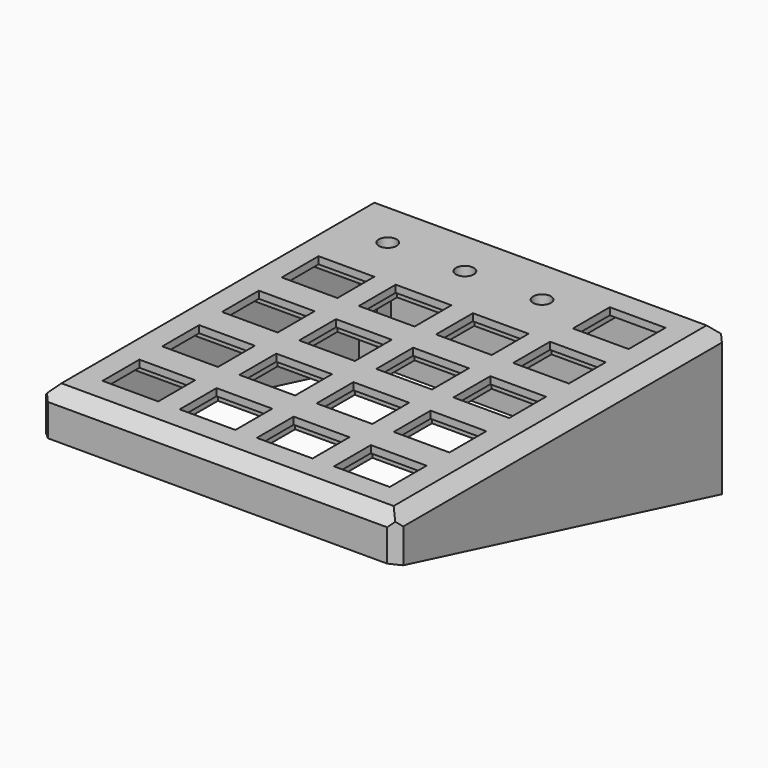
from build123d import *

# Parameters (mm, degrees)
SKETCH_W        = 100
SKETCH_H        = 116.5
SKETCH_R        = 2.5
SKETCH_W_2      = 15.6
SKETCH_H_2      = 12.9
PAD_DEPTH       = 2
SKETCH001_W     = 100
SKETCH001_H     = 116.5
SKETCH001_W_2   = 96
SKETCH001_H_2   = 112.5
PAD001_DEPTH    = 40
SKETCH002_R     = 5
SKETCH002_R_2   = 2.5
SKETCH002_W     = 19.6
SKETCH002_H     = 18.9
PAD002_DEPTH    = 3
POCKET_DEPTH    = 100.001
CHAMFER_SIZE    = 3.5
CHAMFER001_SIZE = 2.5
SKETCH004_W     = 5
SKETCH004_H     = 5
PAD003_DEPTH    = 12.2
SKETCH006_R     = 0.8
POCKET001_DEPTH = 12
POCKET002_DEPTH = 5
POCKET003_DEPTH = 5
SKETCH008_W     = 5
SKETCH008_H     = 5
PAD004_DEPTH    = 41
SKETCH010_R     = 0.8
POCKET004_DEPTH = 15
POCKET005_DEPTH = 5
POCKET006_DEPTH = 5
CHAMFER002_SIZE = 2


with BuildPart() as part:
    # Sketch → Pad (new body)
    with BuildSketch(Plane.XY):
        with Locations((0, 58.25)):
            Rectangle(SKETCH_W, SKETCH_H)
        with Locations((10.8, 100.05)):
            Circle(SKETCH_R, mode=Mode.SUBTRACT)
        with Locations((-10.8, 100.05)):
            Circle(SKETCH_R, mode=Mode.SUBTRACT)
        with Locations((-32.4, 100.05)):
            Circle(SKETCH_R, mode=Mode.SUBTRACT)
        with Locations((-10.8, 16.45)):
            Rectangle(SKETCH_W_2, SKETCH_H_2, mode=Mode.SUBTRACT)
        with Locations((10.8, 16.45)):
            Rectangle(SKETCH_W_2, SKETCH_H_2, mode=Mode.SUBTRACT)
        with Locations((-32.4, 16.45)):
            Rectangle(SKETCH_W_2, SKETCH_H_2, mode=Mode.SUBTRACT)
        with Locations((32.4, 16.45)):
            Rectangle(SKETCH_W_2, SKETCH_H_2, mode=Mode.SUBTRACT)
        with Locations((-32.4, 37.35)):
            Rectangle(SKETCH_W_2, SKETCH_H_2, mode=Mode.SUBTRACT)
        with Locations((-10.8, 37.35)):
            Rectangle(SKETCH_W_2, SKETCH_H_2, mode=Mode.SUBTRACT)
        with Locations((10.8, 37.35)):
            Rectangle(SKETCH_W_2, SKETCH_H_2, mode=Mode.SUBTRACT)
        with Locations((32.4, 37.35)):
            Rectangle(SKETCH_W_2, SKETCH_H_2, mode=Mode.SUBTRACT)
        with Locations((-32.4, 58.25)):
            Rectangle(SKETCH_W_2, SKETCH_H_2, mode=Mode.SUBTRACT)
        with Locations((-10.8, 58.25)):
            Rectangle(SKETCH_W_2, SKETCH_H_2, mode=Mode.SUBTRACT)
        with Locations((10.8, 58.25)):
            Rectangle(SKETCH_W_2, SKETCH_H_2, mode=Mode.SUBTRACT)
        with Locations((32.4, 58.25)):
            Rectangle(SKETCH_W_2, SKETCH_H_2, mode=Mode.SUBTRACT)
        with Locations((-32.4, 79.15)):
            Rectangle(SKETCH_W_2, SKETCH_H_2, mode=Mode.SUBTRACT)
        with Locations((-10.8, 79.15)):
            Rectangle(SKETCH_W_2, SKETCH_H_2, mode=Mode.SUBTRACT)
        with Locations((10.8, 79.15)):
            Rectangle(SKETCH_W_2, SKETCH_H_2, mode=Mode.SUBTRACT)
        with Locations((32.4, 79.15)):
            Rectangle(SKETCH_W_2, SKETCH_H_2, mode=Mode.SUBTRACT)
        with Locations((32.4, 100.05)):
            Rectangle(SKETCH_W_2, SKETCH_H_2, mode=Mode.SUBTRACT)
    extrude(amount=PAD_DEPTH)

    # Sketch001 (on Face76 of Pad) → Pad001 (join)
    with BuildSketch(Plane(origin=(0, 0, 0), x_dir=(1, 0, 0), z_dir=(0, 0, -1))):
        with Locations((0, -58.25)):
            Rectangle(SKETCH001_W, SKETCH001_H)
        with Locations((0, -58.25)):
            Rectangle(SKETCH001_W_2, SKETCH001_H_2, mode=Mode.SUBTRACT)
    extrude(amount=PAD001_DEPTH)

    # Sketch002 (on Face81 of Pad001) → Pad002 (join)
    with BuildSketch(Plane(origin=(0, 0, 0), x_dir=(1, 0, 0), z_dir=(0, 0, -1))):
        with Locations((-32.4, -100.05)):
            Circle(SKETCH002_R)
        with Locations((-32.4, -100.05)):
            Circle(SKETCH002_R_2, mode=Mode.SUBTRACT)
        with Locations((-10.8, -100.05)):
            Circle(SKETCH002_R)
        with Locations((-10.8, -100.05)):
            Circle(SKETCH002_R_2, mode=Mode.SUBTRACT)
        with Locations((10.8, -100.05)):
            Circle(SKETCH002_R)
        with Locations((10.8, -100.05)):
            Circle(SKETCH002_R_2, mode=Mode.SUBTRACT)
        Polygon((22.6, -114.5), (20.6, -114.5), (20.6, -90.6), (1, -90.6), (1, -114.5), (-1, -114.5), (-1, -90.6), (-20.6, -90.6), (-20.6, -114.5), (-22.6, -114.5), (-22.6, -90.6), (-48, -90.6), (-48, -88.6), (-22.6, -88.6), (-22.6, -69.7), (-48, -69.7), (-48, -67.7), (-22.6, -67.7), (-22.6, -48.8), (-48, -48.8), (-48, -46.8), (-22.6, -46.8), (-22.6, -27.9), (-48, -27.9), (-48, -25.9), (-22.6, -25.9), (-22.6, -2), (-20.6, -2), (-20.6, -25.9), (-1, -25.9), (-1, -2), (1, -2), (1, -25.9), (20.6, -25.9), (20.6, -2), (22.6, -2), (22.6, -25.9), (48, -25.9), (48, -27.9), (22.6, -27.9), (22.6, -46.8), (48, -46.8), (48, -48.8), (22.6, -48.8), (22.6, -67.7), (48, -67.7), (48, -69.7), (22.6, -69.7), (22.6, -88.6), (48, -88.6), (48, -90.6), (22.6, -90.6), align=None)
        with Locations((10.8, -79.15)):
            Rectangle(SKETCH002_W, SKETCH002_H, mode=Mode.SUBTRACT)
        with Locations((-10.8, -79.15)):
            Rectangle(SKETCH002_W, SKETCH002_H, mode=Mode.SUBTRACT)
        with Locations((10.8, -58.25)):
            Rectangle(SKETCH002_W, SKETCH002_H, mode=Mode.SUBTRACT)
        with Locations((-10.8, -58.25)):
            Rectangle(SKETCH002_W, SKETCH002_H, mode=Mode.SUBTRACT)
        with Locations((10.8, -37.35)):
            Rectangle(SKETCH002_W, SKETCH002_H, mode=Mode.SUBTRACT)
        with Locations((-10.8, -37.35)):
            Rectangle(SKETCH002_W, SKETCH002_H, mode=Mode.SUBTRACT)
    extrude(amount=PAD002_DEPTH)

    # Sketch003 (on Face78 of Pad002) → Pocket (cut, through all)
    with BuildSketch(Plane.YZ.offset(50)):
        Polygon((-1, -10.21068), (126.5, -42), (-1, -42), align=None)
    extrude(amount=-POCKET_DEPTH, mode=Mode.SUBTRACT)

    # Chamfer
    chamfer_edges = [part.edges().sort_by_distance(p)[0] for p in [
        (-50, 58.25, 2),
        (0, 0, 2),
        (50, 58.25, 2),
        (0, 116.5, 2),
    ]]
    chamfer(chamfer_edges, length=CHAMFER_SIZE)

    # Chamfer001
    chamfer001_edges = [part.edges().sort_by_distance(p)[0] for p in [
        (50, 0, -5.980004),
        (-50, 0, -5.980004),
        (-50, 116.5, -20.50336),
        (50, 116.5, -20.50336),
    ]]
    chamfer(chamfer001_edges, length=CHAMFER001_SIZE)

    # Sketch004 (on Face99 of Chamfer001) → Pad003 (join)
    with BuildSketch(Plane(origin=(0, 0, 0), x_dir=(1, 0, 0), z_dir=(0, 0, -1))):
        with Locations((45.5, -4.5)):
            Rectangle(SKETCH004_W, SKETCH004_H)
        with Locations((-45.5, -4.5)):
            Rectangle(SKETCH004_W, SKETCH004_H)
    extrude(amount=PAD003_DEPTH)

    # Sketch006 (on Face134 of Pad003) → Pocket001 (cut)
    with BuildSketch(Plane(origin=(0, 0, -12.2), x_dir=(1, 0, 0), z_dir=(0, 0, -1))):
        with Locations((-45.5, -4.5)):
            Circle(SKETCH006_R)
        with Locations((45.5, -4.5)):
            Circle(SKETCH006_R)
    extrude(amount=-POCKET001_DEPTH, mode=Mode.SUBTRACT)

    # Sketch005 (on Face123 of Pad003) → Pocket002 (cut)
    with BuildSketch(Plane(origin=(43, 0, 0), x_dir=(0, -1, 0), z_dir=(-1, 0, 0))):
        Polygon((-7, -10.2), (-2, -8.958664), (-2, -13.791141), (-7, -13.791141), align=None)
    extrude(amount=-POCKET002_DEPTH, mode=Mode.SUBTRACT)

    # Sketch007 (on Face115 of Pocket002) → Pocket003 (cut)
    with BuildSketch(Plane.YZ.offset(-43)):
        Polygon((7, -10.2), (2, -8.958664), (2, -15.592069), (7, -15.592069), align=None)
    extrude(amount=-POCKET003_DEPTH, mode=Mode.SUBTRACT)

    # Sketch008 (on Face127 of Pocket003) → Pad004 (join)
    with BuildSketch(Plane(origin=(0, 0, 0), x_dir=(1, 0, 0), z_dir=(0, 0, -1))):
        with Locations((-45.5, -112)):
            Rectangle(SKETCH008_W, SKETCH008_H)
        with Locations((45.5, -112)):
            Rectangle(SKETCH008_W, SKETCH008_H)
    extrude(amount=PAD004_DEPTH)

    # Sketch010 (on Face163 of Pad004) → Pocket004 (cut)
    with BuildSketch(Plane(origin=(0, 0, -41), x_dir=(1, 0, 0), z_dir=(0, 0, -1))):
        with Locations((-45.5, -112)):
            Circle(SKETCH010_R)
        with Locations((45.5, -112)):
            Circle(SKETCH010_R)
    extrude(amount=-POCKET004_DEPTH, mode=Mode.SUBTRACT)

    # Sketch009 (on Face143 of Pad004) → Pocket005 (cut)
    with BuildSketch(Plane.YZ.offset(-43)):
        Polygon((114.5, -37.008064), (109.5, -35.761424), (109.5, -43.099128), (114.5, -43.099128), align=None)
    extrude(amount=-POCKET005_DEPTH, mode=Mode.SUBTRACT)

    # Sketch011 (on Face153 of Pocket005) → Pocket006 (cut)
    with BuildSketch(Plane(origin=(43, 0, 0), x_dir=(0, -1, 0), z_dir=(-1, 0, 0))):
        Polygon((-114.5, -37.008064), (-109.5, -35.761424), (-109.5, -43.189978), (-114.5, -43.189978), align=None)
    extrude(amount=-POCKET006_DEPTH, mode=Mode.SUBTRACT)

    # Chamfer002
    chamfer002_edges = [part.edges().sort_by_distance(p)[0] for p in [
        (48, 16.45, 0),
        (48, 37.35, 0),
        (48, 58.25, 0),
        (48, 79.15, 0),
        (48, 100.05, 0),
        (32.8, 114.5, 0),
        (10.8, 114.5, 0),
        (-10.8, 114.5, 0),
        (-32.8, 114.5, 0),
        (-48, 100.05, 0),
        (-48, 79.15, 0),
        (-48, 58.25, 0),
        (-48, 37.35, 0),
        (-48, 16.45, 0),
        (-32.8, 2, 0),
        (-10.8, 2, 0),
        (10.8, 2, 0),
        (32.8, 2, 0),
    ]]
    chamfer(chamfer002_edges, length=CHAMFER002_SIZE)


solid = part.part
